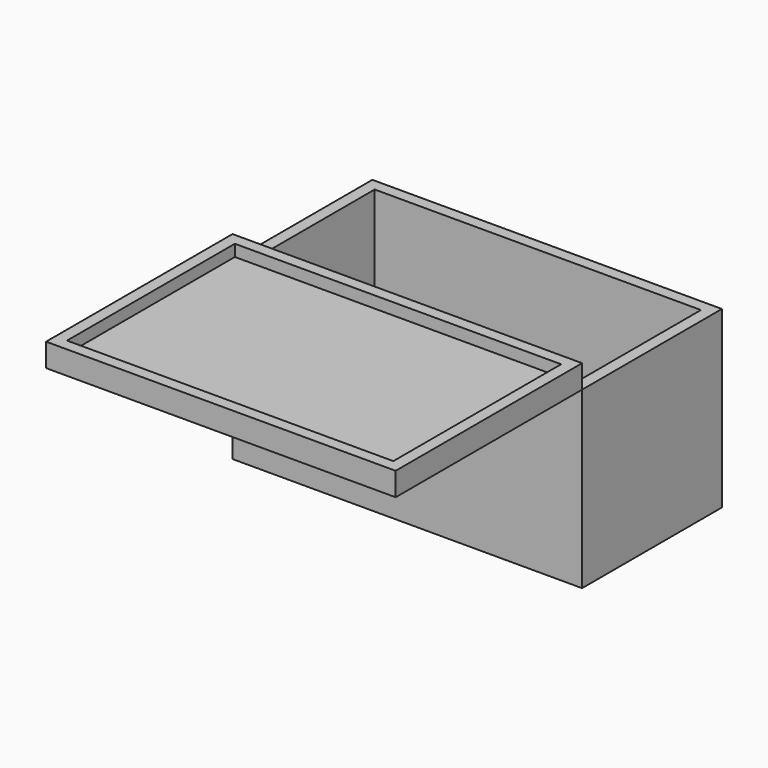
from build123d import *

# Parameters (mm, degrees)
F0_W     = 76.2
F0_H     = 50.8
F1_DEPTH = 5.08
F0_H_2   = 38.1
F2_DEPTH = 38.1
F3_T     = -2.54
F3_2_T   = -2.54


with BuildPart() as f1:
    # F0 (on Top) → F1 (new body)
    with BuildSketch(Plane.XY):
        with Locations((0, -25.4)):
            Rectangle(F0_W, F0_H)
    extrude(amount=F1_DEPTH)

    # F3#2
    f3_2_openings = [f1.faces().sort_by_distance(p)[0] for p in [
        (0, -25.4, 5.08),
    ]]
    offset(amount=F3_2_T, openings=f3_2_openings)


with BuildPart() as f2:
    # F0 (on Top) → F2 (new body)
    with BuildSketch(Plane.XY):
        with Locations((0, 19.05)):
            Rectangle(F0_W, F0_H_2)
    extrude(amount=-F2_DEPTH)

    # F3
    f3_openings = [f2.faces().sort_by_distance(p)[0] for p in [
        (0, 19.05, 0),
    ]]
    offset(amount=F3_T, openings=f3_openings)


solid = Compound([f1.part, f2.part])
